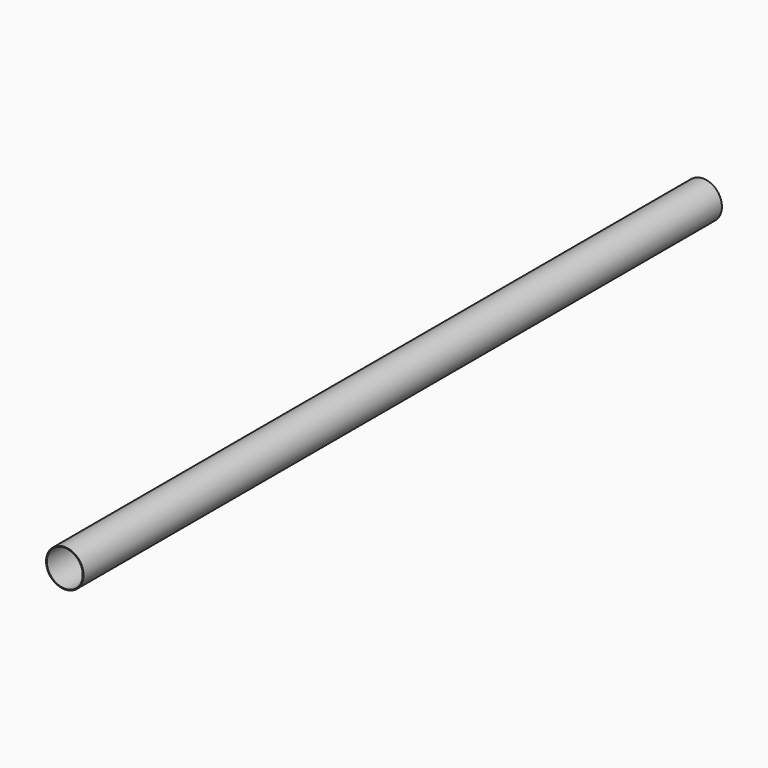
from build123d import *

# Parameters (mm, degrees)
F0_R     = 4.7
F0_R_2   = 4.5
F1_DEPTH = 200


with BuildPart() as f1:
    # F0 (on Front) → F1 (new body)
    with BuildSketch(Plane.XZ):
        Circle(F0_R)
        Circle(F0_R_2, mode=Mode.SUBTRACT)
    extrude(amount=-F1_DEPTH)


with BuildPart() as f3_1:
    # F3: instance of F1
    add(f1.part.mirror(Plane.YZ.offset(-15)))


solid = f1.part
